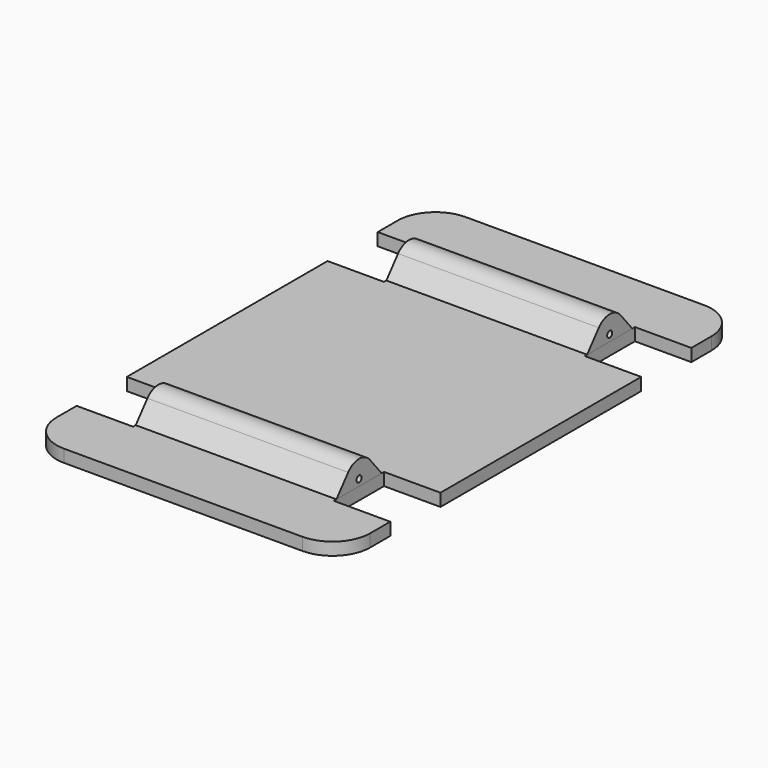
from build123d import *

# Parameters (mm, degrees)
F1_DEPTH = 1
F2_R     = 0.25
F3_DEPTH = 8


with BuildPart() as f1:
    # F0 (on Top) → F1 (new body)
    with BuildSketch(Plane.XY):
        with BuildLine():
            ThreePointArc((12.5, 17), (11.62132, 19.12132), (9.5, 20))
            Line((9.5, 20), (-9.5, 20))
            ThreePointArc((-9.5, 20), (-11.62132, 19.12132), (-12.5, 17))
            Line((-12.5, 17), (-12.5, 15))
            Line((-12.5, 15), (-8, 15))
            Line((-8, 15), (-8, 10))
            Line((-8, 10), (-12.5, 10))
            Line((-12.5, 10), (-12.5, -10))
            Line((-12.5, -10), (-8, -10))
            Line((-8, -10), (-8, -15))
            Line((-8, -15), (-12.5, -15))
            Line((-12.5, -15), (-12.5, -17))
            ThreePointArc((-12.5, -17), (-11.62132, -19.12132), (-9.5, -20))
            Line((-9.5, -20), (9.5, -20))
            ThreePointArc((9.5, -20), (11.62132, -19.12132), (12.5, -17))
            Line((12.5, -17), (12.5, -15))
            Line((12.5, -15), (8, -15))
            Line((8, -15), (8, -10))
            Line((8, -10), (12.5, -10))
            Line((12.5, -10), (12.5, 10))
            Line((12.5, 10), (8, 10))
            Line((8, 10), (8, 15))
            Line((8, 15), (12.5, 15))
            Line((12.5, 15), (12.5, 17))
        make_face()
    extrude(amount=F1_DEPTH)


with BuildPart() as f3:
    # F2 (on Right) → F3 (new body, symmetric)
    with BuildSketch(Plane.YZ):
        with BuildLine():
            Line((14.740349, 1.000379), (13.572576, 2.415229))
            ThreePointArc((13.572576, 2.415229), (12.487946, 2.926366), (11.403316, 2.415229))
            Line((11.403316, 2.415229), (10.223768, 0.986112))
            Line((10.223768, 0.986112), (14.740349, 1.000379))
        make_face()
        with Locations((12.487946, 1.520009)):
            Circle(F2_R, mode=Mode.SUBTRACT)
        with BuildLine():
            Line((-10.223768, 0.986112), (-11.403316, 2.415229))
            ThreePointArc((-11.403316, 2.415229), (-12.487946, 2.926366), (-13.572576, 2.415229))
            Line((-13.572576, 2.415229), (-14.740349, 1.000379))
            Line((-14.740349, 1.000379), (-10.223768, 0.986112))
        make_face()
        with Locations((-12.487946, 1.520009)):
            Circle(F2_R, mode=Mode.SUBTRACT)
    extrude(amount=F3_DEPTH, both=True)


solid = Compound([f1.part, f3.part])
